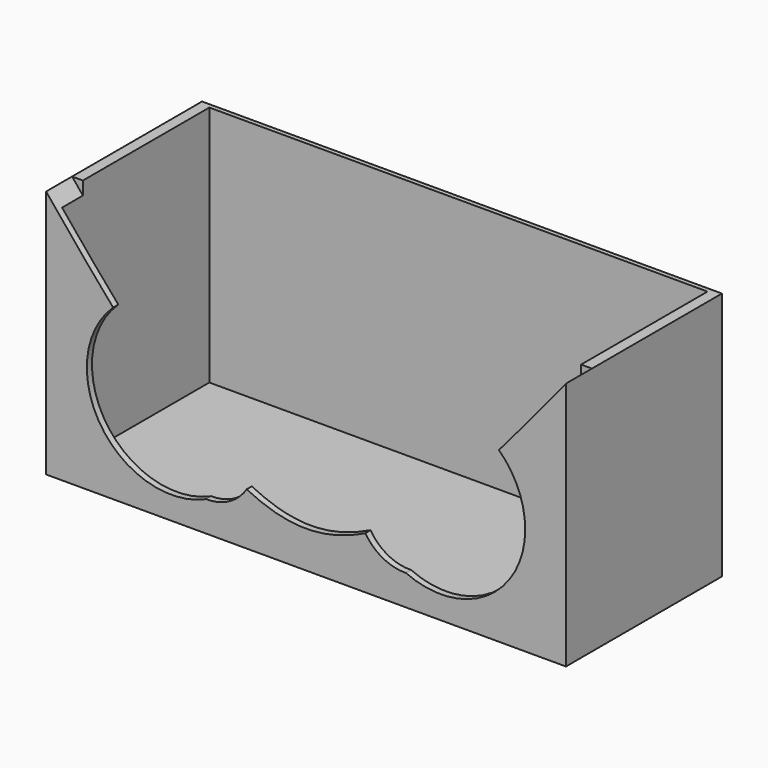
from build123d import *

# Parameters (mm, degrees)
F0_W     = 48
F0_H     = 23
F1_DEPTH = 18
F2_W     = 46
F2_H     = 17
F3_DEPTH = 22.352
F5_DEPTH = 3


with BuildPart() as f1:
    # F0 (on Front) → F1 (new body)
    with BuildSketch(Plane.XZ):
        Rectangle(F0_W, F0_H)
    extrude(amount=F1_DEPTH)

    # F2 (on face) → F3 (cut)
    with BuildSketch(Plane.XY.offset(11.5)):
        with Locations((-4.47e-08, -8.9078345299)):
            Rectangle(F2_W, F2_H)
    extrude(amount=-F3_DEPTH, mode=Mode.SUBTRACT)

    # F4 (on face) → F5 (cut)
    with BuildSketch(Plane.XZ.offset(18)):
        with BuildLine():
            Line((24, 11.5), (-24, 11.5))
            add(Edge.make_bspline(
                [(-24, 11.5), (-21.9359378716, 8.9716693602), (-19.8718757432, 6.4433387205), (-17.8078136148, 4.0833140133)],
                knots=[0, 0, 0, 0, 0.129003883, 0.129003883, 0.129003883, 0.129003883], degree=3))
            ThreePointArc((-17.8078136148, 4.0833140133), (-9.3465218784, 5.5998372929), (-4.6161396554, -1.5776821065))
            ThreePointArc((-4.6161396554, -1.5776821065), (-4.6838516535, -2.6039102527), (-4.8858136092, -3.6123449263))
            ThreePointArc((-4.8858136092, -3.6123449263), (-4.8967692227, -5.2028290958), (-5.482547982, -6.6815525873))
            add(Edge.make_bspline(
                [(-5.482547982, -6.6815525873), (-3.655031988, -7.5874926735), (-1.827515994, -8.0988723785), (0, -8.0988723785)],
                knots=[0.3857802504, 0.3857802504, 0.3857802504, 0.3857802504, 0.5, 0.5, 0.5, 0.5], degree=3))
            add(Edge.make_bspline(
                [(0, -8.0988723785), (1.8266966783, -8.0988723785), (3.6533933566, -7.5879510963), (5.4800900349, -6.6827708081)],
                knots=[0.5, 0.5, 0.5, 0.5, 0.6141685424, 0.6141685424, 0.6141685424, 0.6141685424], degree=3))
            ThreePointArc((5.4800900349, -6.6827708081), (4.8929807707, -5.1976220671), (4.8851620207, -3.6006552741))
            ThreePointArc((4.8851620207, -3.6006552741), (8.4364089916, 5.1373167643), (17.8096110461, 4.085369218))
            add(Edge.make_bspline(
                [(17.8096110461, 4.085369218), (19.8730740307, 6.4448065383), (21.9365370154, 8.9724032691), (24, 11.5)],
                knots=[0.8710335635, 0.8710335635, 0.8710335635, 0.8710335635, 1, 1, 1, 1], degree=3))
        make_face()
        with BuildLine():
            ThreePointArc((-4.6161396554, -1.5776821065), (-9.3465218784, 5.5998372929), (-17.8078136148, 4.0833140133))
            add(Edge.make_bspline(
                [(-17.8078136148, 4.0833140133), (-16.0140889616, 2.0323900412), (-14.2203643085, 0.1085718923), (-12.4266396554, -1.5776821065)],
                knots=[0.129003883, 0.129003883, 0.129003883, 0.129003883, 0.2411116738, 0.2411116738, 0.2411116738, 0.2411116738], degree=3))
            add(Edge.make_bspline(
                [(-12.4266396554, -1.5776821065), (-10.3534160171, -3.5266889647), (-8.2801923789, -5.1583289061), (-6.2069687406, -6.3020449167)],
                knots=[0.2411116738, 0.2411116738, 0.2411116738, 0.2411116738, 0.3706881512, 0.3706881512, 0.3706881512, 0.3706881512], degree=3))
            ThreePointArc((-6.2069687406, -6.3020449167), (-5.4161874116, -5.0211497754), (-4.8858136092, -3.6123449263))
            ThreePointArc((-4.8858136092, -3.6123449263), (-4.6838516535, -2.6039102527), (-4.6161396554, -1.5776821065))
        make_face()
        with BuildLine():
            add(Edge.make_bspline(
                [(-17.8078136148, 4.0833140133), (-16.0140889616, 2.0323900412), (-14.2203643085, 0.1085718923), (-12.4266396554, -1.5776821065)],
                knots=[0.129003883, 0.129003883, 0.129003883, 0.129003883, 0.2411116738, 0.2411116738, 0.2411116738, 0.2411116738], degree=3))
            ThreePointArc((-17.8078136148, 4.0833140133), (-18.9086098616, -5.9352011823), (-9.2157687538, -8.6976693469))
            ThreePointArc((-9.2157687538, -8.6976693469), (-13.0755167796, -6.1542936511), (-12.4266396554, -1.5776821065))
        make_face()
        with BuildLine():
            add(Edge.make_bspline(
                [(-12.4266396554, -1.5776821065), (-10.3534160171, -3.5266889647), (-8.2801923789, -5.1583289061), (-6.2069687406, -6.3020449167)],
                knots=[0.2411116738, 0.2411116738, 0.2411116738, 0.2411116738, 0.3706881512, 0.3706881512, 0.3706881512, 0.3706881512], degree=3))
            ThreePointArc((-12.4266396554, -1.5776821065), (-13.0755167796, -6.1542936511), (-9.2157687538, -8.6976693469))
            ThreePointArc((-9.2157687538, -8.6976693469), (-7.5616079145, -7.6879502193), (-6.2069687406, -6.3020449167))
        make_face()
        with BuildLine():
            ThreePointArc((-6.2069687406, -6.3020449167), (-7.5616079145, -7.6879502193), (-9.2157687538, -8.6976693469))
            ThreePointArc((-9.2157687538, -8.6976693469), (-7.0845998748, -8.1794909589), (-5.482547982, -6.6815525873))
            add(Edge.make_bspline(
                [(-6.2069687406, -6.3020449167), (-5.9654951544, -6.4352564051), (-5.7240215682, -6.5618487914), (-5.482547982, -6.6815525873)],
                knots=[0.3706881512, 0.3706881512, 0.3706881512, 0.3706881512, 0.3857802504, 0.3857802504, 0.3857802504, 0.3857802504], degree=3))
        make_face()
        with BuildLine():
            ThreePointArc((20.2391303397, -1.5758105962), (19.606097165, 1.5044296902), (17.8096110461, 4.085369218))
            add(Edge.make_bspline(
                [(12.4286303397, -1.5758105962), (14.2222905752, 0.1105585898), (16.0159508106, 2.0344340033), (17.8096110461, 4.085369218)],
                knots=[0.7589297987, 0.7589297987, 0.7589297987, 0.7589297987, 0.8710335635, 0.8710335635, 0.8710335635, 0.8710335635], degree=3))
            ThreePointArc((12.4286303397, -1.5758105962), (13.080424676, -6.1500390798), (9.2274737476, -8.7001706883))
            ThreePointArc((9.2274737476, -8.7001706883), (16.6713462557, -8.1334985962), (20.2391303397, -1.5758105962))
        make_face()
        with BuildLine():
            add(Edge.make_bspline(
                [(12.4286303397, -1.5758105962), (14.2222905752, 0.1105585898), (16.0159508106, 2.0344340033), (17.8096110461, 4.085369218)],
                knots=[0.7589297987, 0.7589297987, 0.7589297987, 0.7589297987, 0.8710335635, 0.8710335635, 0.8710335635, 0.8710335635], degree=3))
            ThreePointArc((17.8096110461, 4.085369218), (8.4364089916, 5.1373167643), (4.8851620207, -3.6006552741))
            ThreePointArc((4.8851620207, -3.6006552741), (5.4160889034, -5.0150216763), (6.2093732837, -6.300718206))
            add(Edge.make_bspline(
                [(6.2093732837, -6.300718206), (8.282458969, -5.1567010835), (10.3555446544, -3.5248908904), (12.4286303397, -1.5758105962)],
                knots=[0.6293619434, 0.6293619434, 0.6293619434, 0.6293619434, 0.7589297987, 0.7589297987, 0.7589297987, 0.7589297987], degree=3))
        make_face()
        with BuildLine():
            ThreePointArc((-4.8858136092, -3.6123449263), (-5.4161874116, -5.0211497754), (-6.2069687406, -6.3020449167))
            add(Edge.make_bspline(
                [(-6.2069687406, -6.3020449167), (-5.9654951544, -6.4352564051), (-5.7240215682, -6.5618487914), (-5.482547982, -6.6815525873)],
                knots=[0.3706881512, 0.3706881512, 0.3706881512, 0.3706881512, 0.3857802504, 0.3857802504, 0.3857802504, 0.3857802504], degree=3))
            ThreePointArc((-5.482547982, -6.6815525873), (-4.8967692227, -5.2028290958), (-4.8858136092, -3.6123449263))
        make_face()
        with BuildLine():
            ThreePointArc((9.2274737476, -8.7001706883), (13.080424676, -6.1500390798), (12.4286303397, -1.5758105962))
            add(Edge.make_bspline(
                [(6.2093732837, -6.300718206), (8.282458969, -5.1567010835), (10.3555446544, -3.5248908904), (12.4286303397, -1.5758105962)],
                knots=[0.6293619434, 0.6293619434, 0.6293619434, 0.6293619434, 0.7589297987, 0.7589297987, 0.7589297987, 0.7589297987], degree=3))
            ThreePointArc((6.2093732837, -6.300718206), (7.5680345553, -7.6896080143), (9.2274737476, -8.7001706883))
        make_face()
        with BuildLine():
            ThreePointArc((6.2093732837, -6.300718206), (5.4160889034, -5.0150216763), (4.8851620207, -3.6006552741))
            ThreePointArc((4.8851620207, -3.6006552741), (4.8929807707, -5.1976220671), (5.4800900349, -6.6827708081))
            add(Edge.make_bspline(
                [(5.4800900349, -6.6827708081), (5.7231844512, -6.5623105935), (5.9662788674, -6.4348680757), (6.2093732837, -6.300718206)],
                knots=[0.6141685424, 0.6141685424, 0.6141685424, 0.6141685424, 0.6293619434, 0.6293619434, 0.6293619434, 0.6293619434], degree=3))
        make_face()
        with BuildLine():
            ThreePointArc((9.2274737476, -8.7001706883), (7.5680345553, -7.6896080143), (6.2093732837, -6.300718206))
            add(Edge.make_bspline(
                [(5.4800900349, -6.6827708081), (5.7231844512, -6.5623105935), (5.9662788674, -6.4348680757), (6.2093732837, -6.300718206)],
                knots=[0.6141685424, 0.6141685424, 0.6141685424, 0.6141685424, 0.6293619434, 0.6293619434, 0.6293619434, 0.6293619434], degree=3))
            ThreePointArc((5.4800900349, -6.6827708081), (7.0883105329, -8.1845921438), (9.2274737476, -8.7001706883))
        make_face()
    extrude(amount=-F5_DEPTH, mode=Mode.SUBTRACT)


solid = f1.part
